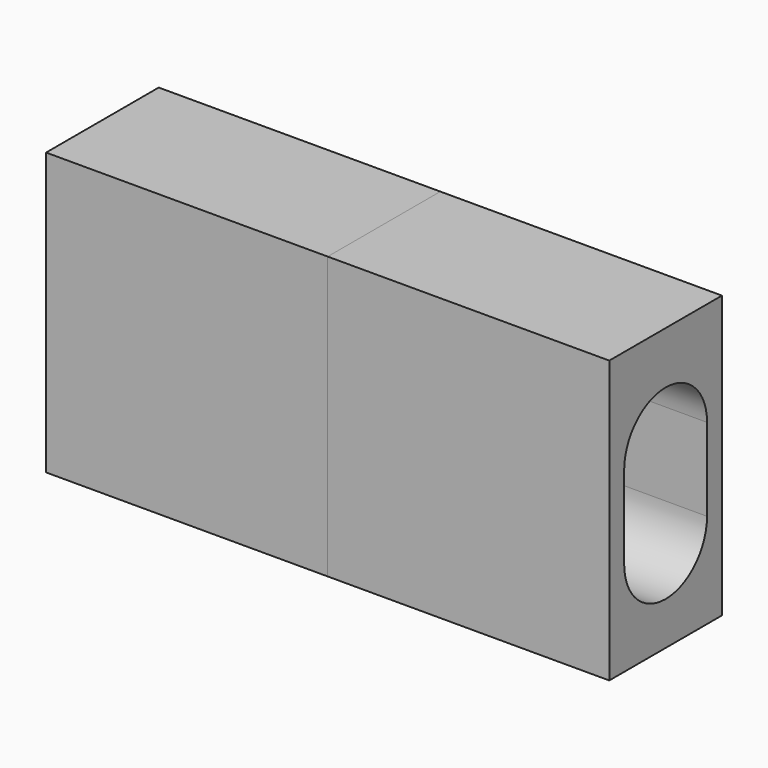
from build123d import *

# Parameters (mm, degrees)
F0_W     = 50.8
F0_H     = 50.8
F1_DEPTH = 12.7
F4_DEPTH = 25.4


with BuildPart() as f1:
    # F0 (on Front) → F1 (new body, symmetric)
    with BuildSketch(Plane.XZ):
        with Locations((25.4, 25.4)):
            Rectangle(F0_W, F0_H)
    extrude(amount=F1_DEPTH, both=True)


with BuildPart() as f2_1:
    # F2: instance of F1
    add(f1.part.mirror(Plane.YZ))


with BuildPart() as f1_1:
    add(f1.part)

    # F3 (on face) → F4 (cut)
    with BuildSketch(Plane.YZ.offset(50.8)):
        with BuildLine():
            ThreePointArc((9.344614426, 32.0321582258), (0, 41.3767726518), (-9.344614426, 32.0321582258))
            Line((-9.344614426, 32.0321582258), (-9.344614426, 17.1057507396))
            ThreePointArc((-9.344614426, 17.1057507396), (0, 7.7611363136), (9.344614426, 17.1057507396))
            Line((9.344614426, 17.1057507396), (9.344614426, 32.0321582258))
        make_face()
    extrude(amount=-F4_DEPTH, mode=Mode.SUBTRACT)


solid = Compound([f2_1.part, f1_1.part])
